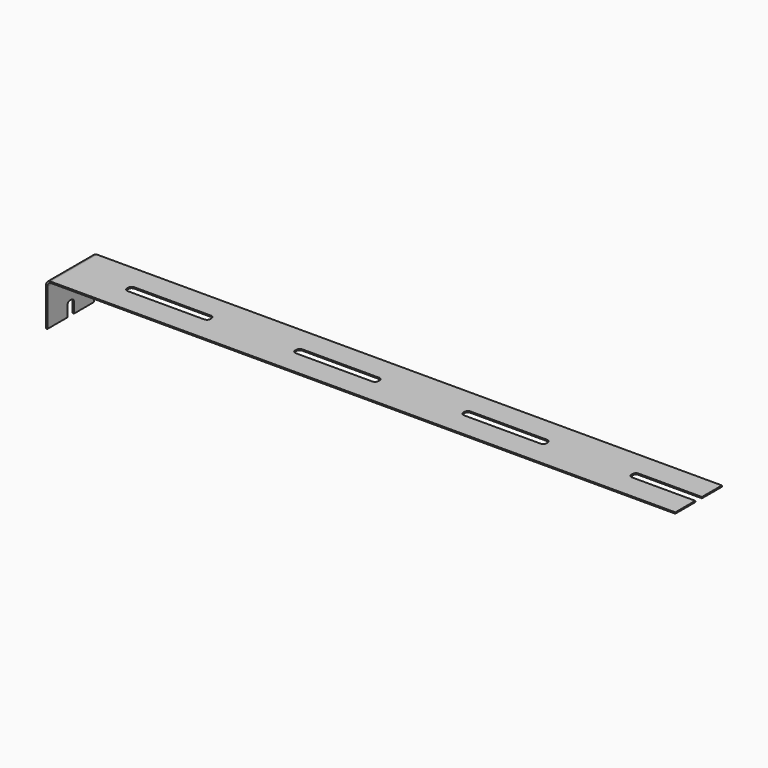
from build123d import *

# Parameters (mm, degrees)
F0_W     = 3
F0_H     = 3
F1_DEPTH = 0.15
F2_DEPTH = 1.9
F3_W     = 0.15
F3_H     = 7
F4_DEPTH = 5
F6_DEPTH = 25
F7_R     = 0.5


with BuildPart() as f1:
    # F0 (on Top) → F1 (new body)
    with BuildSketch(Plane.XY):
        with Locations((72.2, 2)):
            Rectangle(F0_W, F0_H)
        with BuildLine():
            Line((10.1, -0.5), (10.1, -3.5))
            Line((10.1, -3.5), (20.2, -3.5))
            Line((20.2, -3.5), (30.3, -3.5))
            Line((30.3, -3.5), (30.3, -0.5))
            Line((30.3, -0.5), (25.7, -0.5))
            ThreePointArc((25.7, -0.5), (25.4171572875, -0.3828427125), (25.3, -0.1))
            Line((25.3, -0.1), (25.3, 0.1))
            ThreePointArc((25.3, 0.1), (25.4171572875, 0.3828427125), (25.7, 0.5))
            Line((25.7, 0.5), (30.3, 0.5))
            Line((30.3, 0.5), (30.3, 3.5))
            Line((30.3, 3.5), (20.2, 3.5))
            Line((20.2, 3.5), (10.1, 3.5))
            Line((10.1, 3.5), (10.1, 0.5))
            Line((10.1, 0.5), (14.7, 0.5))
            ThreePointArc((14.7, 0.5), (14.9828427125, 0.3828427125), (15.1, 0.1))
            Line((15.1, 0.1), (15.1, -0.1))
            ThreePointArc((15.1, -0.1), (14.9828427125, -0.3828427125), (14.7, -0.5))
            Line((14.7, -0.5), (10.1, -0.5))
        make_face()
        with BuildLine():
            Line((30.3, -0.5), (30.3, -3.5))
            Line((30.3, -3.5), (40.4, -3.5))
            Line((40.4, -3.5), (50.5, -3.5))
            Line((50.5, -3.5), (50.5, -0.5))
            Line((50.5, -0.5), (45.9, -0.5))
            ThreePointArc((45.9, -0.5), (45.6171572875, -0.3828427125), (45.5, -0.1))
            Line((45.5, -0.1), (45.5, 0.1))
            ThreePointArc((45.5, 0.1), (45.6171572875, 0.3828427125), (45.9, 0.5))
            Line((45.9, 0.5), (50.5, 0.5))
            Line((50.5, 0.5), (50.5, 3.5))
            Line((50.5, 3.5), (40.4, 3.5))
            Line((40.4, 3.5), (30.3, 3.5))
            Line((30.3, 3.5), (30.3, 0.5))
            Line((30.3, 0.5), (34.9, 0.5))
            ThreePointArc((34.9, 0.5), (35.1828427125, 0.3828427125), (35.3, 0.1))
            Line((35.3, 0.1), (35.3, -0.1))
            ThreePointArc((35.3, -0.1), (35.1828427125, -0.3828427125), (34.9, -0.5))
            Line((34.9, -0.5), (30.3, -0.5))
        make_face()
        with BuildLine():
            Line((50.5, -0.5), (50.5, -3.5))
            Line((50.5, -3.5), (60.6, -3.5))
            Line((60.6, -3.5), (70.7, -3.5))
            Line((70.7, -3.5), (70.7, -0.5))
            Line((70.7, -0.5), (66.1, -0.5))
            ThreePointArc((66.1, -0.5), (65.8171572875, -0.3828427125), (65.7, -0.1))
            Line((65.7, -0.1), (65.7, 0.1))
            ThreePointArc((65.7, 0.1), (65.8171572875, 0.3828427125), (66.1, 0.5))
            Line((66.1, 0.5), (70.7, 0.5))
            Line((70.7, 0.5), (70.7, 3.5))
            Line((70.7, 3.5), (60.6, 3.5))
            Line((60.6, 3.5), (50.5, 3.5))
            Line((50.5, 3.5), (50.5, 0.5))
            Line((50.5, 0.5), (55.1, 0.5))
            ThreePointArc((55.1, 0.5), (55.3828427125, 0.3828427125), (55.5, 0.1))
            Line((55.5, 0.1), (55.5, -0.1))
            ThreePointArc((55.5, -0.1), (55.3828427125, -0.3828427125), (55.1, -0.5))
            Line((55.1, -0.5), (50.5, -0.5))
        make_face()
        with BuildLine():
            Line((0, 3.5), (0, -3.5))
            Line((0, -3.5), (10.1, -3.5))
            Line((10.1, -3.5), (10.1, -0.5))
            Line((10.1, -0.5), (5.5, -0.5))
            ThreePointArc((5.5, -0.5), (5.2171572875, -0.3828427125), (5.1, -0.1))
            Line((5.1, -0.1), (5.1, 0.1))
            ThreePointArc((5.1, 0.1), (5.2171572875, 0.3828427125), (5.5, 0.5))
            Line((5.5, 0.5), (10.1, 0.5))
            Line((10.1, 0.5), (10.1, 3.5))
            Line((10.1, 3.5), (0, 3.5))
        make_face()
        with Locations((72.2, 2)):
            Rectangle(F0_W, F0_H)
        with Locations((72.2, -2)):
            Rectangle(F0_W, F0_H)
    extrude(amount=F1_DEPTH)

    # F2 (add): a face of the model
    f2_faces = [f1.faces().sort_by_distance(p)[0] for p in [
        (0, 0, 0.075),
    ]]
    extrude(f2_faces, amount=F2_DEPTH)

    # F3 (on face) → F4 (join)
    with BuildSketch(Plane(origin=(0, 0, 0), x_dir=(1, 0, 0), z_dir=(0, 0, -1))):
        with Locations((-1.825, 0)):
            Rectangle(F3_W, F3_H)
    extrude(amount=F4_DEPTH)

    # F5 (on face) → F6 (cut)
    with BuildSketch(Plane(origin=(-1.9, 0, 0), x_dir=(0, -1, 0), z_dir=(-1, 0, 0))):
        with BuildLine():
            ThreePointArc((0.5, -3.75), (0.3828427125, -3.4671572875), (0.1, -3.35))
            Line((0.1, -3.35), (-0.1, -3.35))
            ThreePointArc((-0.1, -3.35), (-0.3828427125, -3.4671572875), (-0.5, -3.75))
            Line((-0.5, -3.75), (-0.5, -5))
            Line((-0.5, -5), (0.5, -5))
            Line((0.5, -5), (0.5, -3.75))
        make_face()
    extrude(amount=-F6_DEPTH, mode=Mode.SUBTRACT)

    # F7
    f7_edges = [f1.edges().sort_by_distance(p)[0] for p in [
        (-1.9, 0, 0.15),
        (-1.75, 0, 0),
    ]]
    fillet(f7_edges, radius=F7_R)


solid = f1.part
